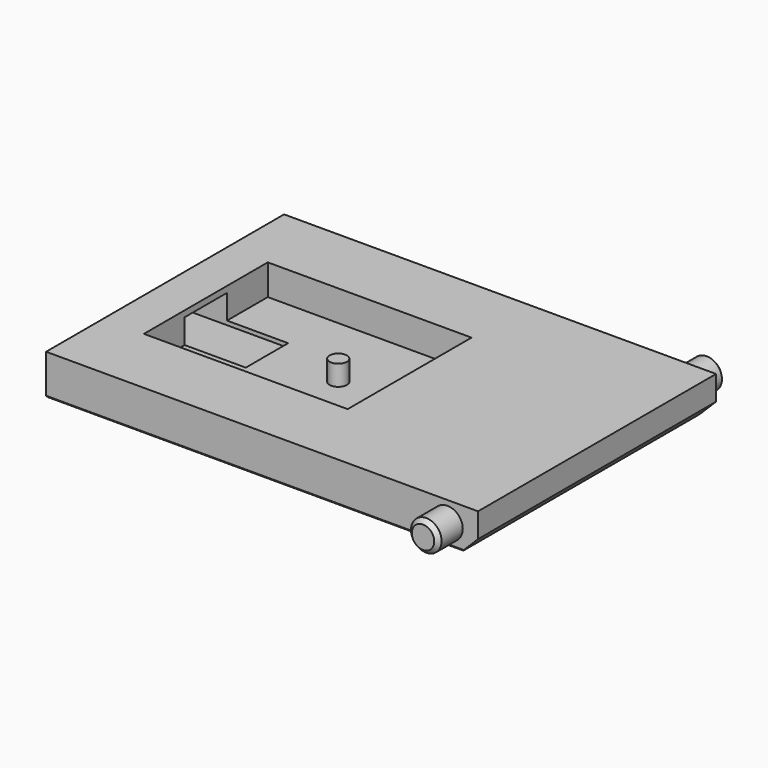
from build123d import *

# Parameters (mm, degrees)
SKETCH_W        = 212
SKETCH_H        = 146
PAD_DEPTH       = 20
SKETCH001_R     = 7.5
PAD001_DEPTH    = 15
SKETCH002_R     = 7.5
PAD002_DEPTH    = 15
CHAMFER_SIZE    = 2
CHAMFER001_SIZE = 2
CHAMFER002_SIZE = 8
SKETCH003_W     = 26
SKETCH003_H     = 14
POCKET_DEPTH    = 50
SKETCH004_W     = 100
SKETCH004_H     = 76
POCKET001_DEPTH = 15
CHAMFER003_SIZE = 1
CHAMFER004_SIZE = 1
SKETCH005_R     = 4.25
PAD003_DEPTH    = 10


with BuildPart() as part:
    # Sketch → Pad (new body)
    with BuildSketch(Plane.XY):
        with Locations((106, -73)):
            Rectangle(SKETCH_W, SKETCH_H)
    extrude(amount=PAD_DEPTH)

    # Sketch001 (on Face2 of Pad) → Pad001 (join)
    with BuildSketch(Plane.XZ.offset(146)):
        with Locations((197, 10)):
            Circle(SKETCH001_R)
    extrude(amount=PAD001_DEPTH)

    # Sketch002 (on Face2 of Pad001) → Pad002 (join)
    with BuildSketch(Plane(origin=(0, 0, 0), x_dir=(-1, 0, 0), z_dir=(0, 1, 0))):
        with Locations((-197, 10)):
            Circle(SKETCH002_R)
    extrude(amount=PAD002_DEPTH)

    # Chamfer
    chamfer_edges = [part.edges().sort_by_distance(p)[0] for p in [
        (204.5, 15, 10),
    ]]
    chamfer(chamfer_edges, length=CHAMFER_SIZE)

    # Chamfer001
    chamfer001_edges = [part.edges().sort_by_distance(p)[0] for p in [
        (189.5, -161, 10),
    ]]
    chamfer(chamfer001_edges, length=CHAMFER001_SIZE)

    # Chamfer002
    chamfer002_edges = [part.edges().sort_by_distance(p)[0] for p in [
        (212, -73, 0),
    ]]
    chamfer(chamfer002_edges, length=CHAMFER002_SIZE)

    # Sketch003 (on Face4 of Chamfer002) → Pocket (cut)
    with BuildSketch(Plane(origin=(0, 0, 0), x_dir=(0, -1, 0), z_dir=(-1, 0, 0))):
        with Locations((73, 10)):
            Rectangle(SKETCH003_W, SKETCH003_H)
    extrude(amount=-POCKET_DEPTH, mode=Mode.SUBTRACT)

    # Sketch004 (on Face6 of Pocket) → Pocket001 (cut)
    with BuildSketch(Plane.XY.offset(20)):
        with Locations((70, -73)):
            Rectangle(SKETCH004_W, SKETCH004_H)
    extrude(amount=-POCKET001_DEPTH, mode=Mode.SUBTRACT)

    # Chamfer003
    chamfer003_edges = [part.edges().sort_by_distance(p)[0] for p in [
        (102, 0, 0),
    ]]
    chamfer(chamfer003_edges, length=CHAMFER003_SIZE)

    # Chamfer004
    chamfer004_edges = [part.edges().sort_by_distance(p)[0] for p in [
        (102, -146, 0),
    ]]
    chamfer(chamfer004_edges, length=CHAMFER004_SIZE)

    # Sketch005 (on Face20 of Chamfer004) → Pad003 (join)
    with BuildSketch(Plane.XY.offset(5)):
        with Locations((85, -73)):
            Circle(SKETCH005_R)
    extrude(amount=PAD003_DEPTH)


solid = part.part
